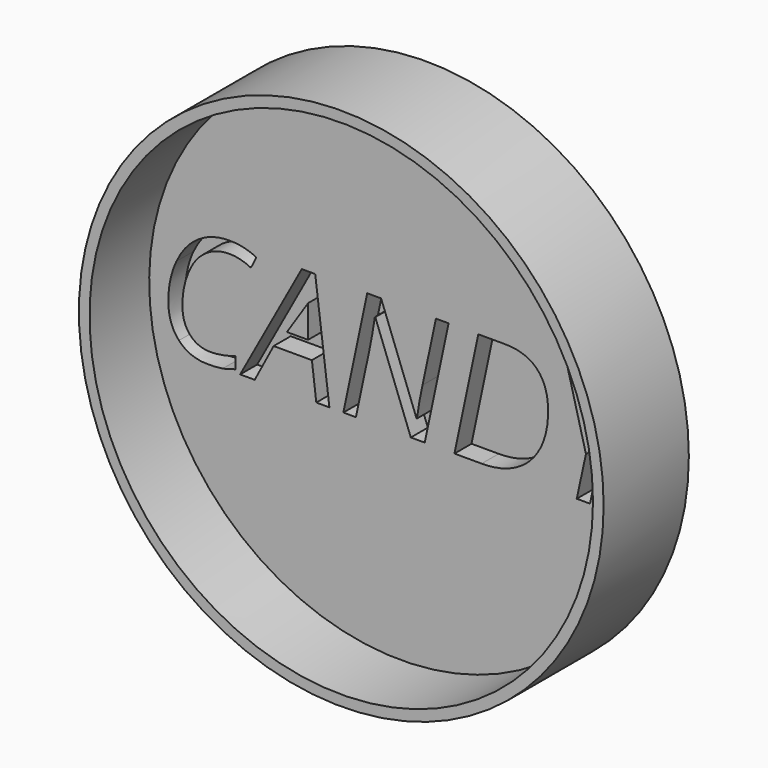
from build123d import *

# Parameters (mm, degrees)
F0_R     = 62.5695627455
F1_DEPTH = 25.4
F2_T     = -2.54
F4_DEPTH = 5.08
F6_DEPTH = 5.08


with BuildPart() as f1:
    # F0 (on Front) → F1 (new body)
    with BuildSketch(Plane.XZ):
        Circle(F0_R)
    extrude(amount=F1_DEPTH)

    # F2
    f2_openings = [f1.faces().sort_by_distance(p)[0] for p in [
        (0, -25.4, 0),
    ]]
    offset(amount=F2_T, openings=f2_openings)

    # F3 (on face) → F4 (join)
    with BuildSketch(Plane.XZ.offset(2.54)):
        with BuildLine():
            Line((42.8714592834, 14.3697795653), (46.1623315652, 0.6234704811))
            Line((46.1623315652, 0.6234704811), (55.1577749403, 14.3697795653))
            Line((55.1577749403, 14.3697795653), (58.2842846629, 14.3697795653))
            ThreePointArc((58.2842846629, 14.3697795653), (-59.591645919, -7.2376888635), (60.0295627455, 0))
            ThreePointArc((60.0295627455, 0), (59.6196375987, 7.0033717604), (58.3954606874, 13.9110953747))
            Line((58.3954606874, 13.9110953747), (47.174907652, -2.5732086764))
            Line((47.174907652, -2.5732086764), (45.0967718461, -12.5282445057))
            Line((45.0967718461, -12.5282445057), (41.92952804, -12.5282445057))
            Line((41.92952804, -12.5282445057), (44.119518181, -2.4260319196))
            Line((44.119518181, -2.4260319196), (39.7454249692, 14.3697795653))
            Line((39.7454249692, 14.3697795653), (42.8714592834, 14.3697795653))
        make_face()
        with BuildLine():
            add(Edge.make_bspline(
                [(-35.7621383344, 10.6903606455), (-38.3053526918, 11.9560807539), (-40.8956636113, 11.9560807539)],
                knots=[0, 0, 0, 1, 1, 1], degree=2))
            add(Edge.make_bspline(
                [(-40.8956636113, 11.9560807539), (-44.098229839, 11.9560807539), (-46.6267265207, 10.1722984616)],
                knots=[0, 0, 0, 1, 1, 1], degree=2))
            add(Edge.make_bspline(
                [(-46.6267265207, 10.1722984616), (-49.1552232023, 8.3885161693), (-50.6358213756, 4.9386929902)],
                knots=[0, 0, 0, 1, 1, 1], degree=2))
            add(Edge.make_bspline(
                [(-50.6358213756, 4.9386929902), (-52.116419549, 1.488869811), (-52.116419549, -2.5732086764)],
                knots=[0, 0, 0, 1, 1, 1], degree=2))
            add(Edge.make_bspline(
                [(-52.116419549, -2.5732086764), (-52.116419549, -6.0171447853), (-50.3238066513, -8.0687887749)],
                knots=[0, 0, 0, 1, 1, 1], degree=2))
            add(Edge.make_bspline(
                [(-50.3238066513, -8.0687887749), (-48.5311937535, -10.1204327646), (-45.3874982285, -10.1204327646)],
                knots=[0, 0, 0, 1, 1, 1], degree=2))
            add(Edge.make_bspline(
                [(-45.3874982285, -10.1204327646), (-42.8266226604, -10.1204327646), (-39.459218465, -9.066647186)],
                knots=[0, 0, 0, 1, 1, 1], degree=2))
            Line((-39.459218465, -9.066647186), (-39.459218465, -11.8100219325))
            add(Edge.make_bspline(
                [(-39.459218465, -11.8100219325), (-41.0428403681, -12.3810677489), (-42.4792855143, -12.6400988408)],
                knots=[0, 0, 0, 1, 1, 1], degree=2))
            add(Edge.make_bspline(
                [(-42.4792855143, -12.6400988408), (-43.9157306606, -12.8991299328), (-45.9349957638, -12.8991299328)],
                knots=[0, 0, 0, 1, 1, 1], degree=2))
            add(Edge.make_bspline(
                [(-45.9349957638, -12.8991299328), (-50.3915079594, -12.8991299328), (-52.9288352464, -10.1469245808)],
                knots=[0, 0, 0, 1, 1, 1], degree=2))
            add(Edge.make_bspline(
                [(-52.9288352464, -10.1469245808), (-55.4661625335, -7.3947192288), (-55.4661625335, -2.6497405899)],
                knots=[0, 0, 0, 1, 1, 1], degree=2))
            add(Edge.make_bspline(
                [(-55.4661625335, -2.6497405899), (-55.4661625335, 2.1541087517), (-53.526372879, 6.2838885472)],
                knots=[0, 0, 0, 1, 1, 1], degree=2))
            add(Edge.make_bspline(
                [(-53.526372879, 6.2838885472), (-51.5865832245, 10.4136683428), (-48.3104286184, 12.5830537379)],
                knots=[0, 0, 0, 1, 1, 1], degree=2))
            add(Edge.make_bspline(
                [(-48.3104286184, 12.5830537379), (-45.0342740122, 14.7524391329), (-40.8956636113, 14.7524391329)],
                knots=[0, 0, 0, 1, 1, 1], degree=2))
            add(Edge.make_bspline(
                [(-40.8956636113, 14.7524391329), (-37.2751153942, 14.7524391329), (-34.496418226, 13.280671565)],
                knots=[0, 0, 0, 1, 1, 1], degree=2))
            Line((-34.496418226, 13.280671565), (-35.7621383344, 10.6903606455))
        make_face(mode=Mode.SUBTRACT)
        Polygon((-20.1790633255, -12.5282445057), (-21.2269618338, -3.974331401), (-30.3519207548, -3.974331401), (-34.8614165829, -12.5282445057), (-38.3406751134, -12.5282445057), (-23.6406606452, 14.3697795653), (-20.4380944174, 14.3697795653), (-17.0530290113, -12.5282445057), align=None, mode=Mode.SUBTRACT)
        with BuildLine():
            Line((11.3697462601, 14.3697795653), (5.6828363777, -12.5282445057))
            Line((5.6828363777, -12.5282445057), (2.3566416742, -12.5282445057))
            Line((2.3566416742, -12.5282445057), (-6.1089653764, 9.9721380724))
            Line((-6.1089653764, 9.9721380724), (-6.2149326412, 9.9721380724))
            add(Edge.make_bspline(
                [(-6.2149326412, 9.9721380724), (-6.8036396684, 5.9041725147), (-7.5807329443, 2.2836242977)],
                knots=[0, 0, 0, 1, 1, 1], degree=2))
            Line((-7.5807329443, 2.2836242977), (-10.7420896801, -12.5282445057))
            Line((-10.7420896801, -12.5282445057), (-13.7209472375, -12.5282445057))
            Line((-13.7209472375, -12.5282445057), (-8.0399244254, 14.3697795653))
            Line((-8.0399244254, 14.3697795653), (-4.7255038625, 14.3697795653))
            Line((-4.7255038625, 14.3697795653), (3.716554907, -8.0776193803))
            Line((3.716554907, -8.0776193803), (3.8284092421, -8.0776193803))
            add(Edge.make_bspline(
                [(3.8284092421, -8.0776193803), (4.3817938477, -3.9566701902), (5.1530000532, -0.6245884165)],
                knots=[0, 0, 0, 1, 1, 1], degree=2))
            Line((5.1530000532, -0.6245884165), (8.355566281, 14.3697795653))
            Line((8.355566281, 14.3697795653), (11.3697462601, 14.3697795653))
        make_face(mode=Mode.SUBTRACT)
        with BuildLine():
            add(Edge.make_bspline(
                [(32.4660625784, 11.6175742133), (35.1064135952, 8.8653688613), (35.1064135952, 3.6082151088)],
                knots=[0, 0, 0, 1, 1, 1], degree=2))
            add(Edge.make_bspline(
                [(35.1064135952, 3.6082151088), (35.1064135952, -1.1956342328), (33.1725110109, -4.8750531526)],
                knots=[0, 0, 0, 1, 1, 1], degree=2))
            add(Edge.make_bspline(
                [(33.1725110109, -4.8750531526), (31.2386084267, -8.5544720723), (27.6533826313, -10.541358289)],
                knots=[0, 0, 0, 1, 1, 1], degree=2))
            add(Edge.make_bspline(
                [(27.6533826313, -10.541358289), (24.0681568359, -12.5282445057), (19.2466462835, -12.5282445057)],
                knots=[0, 0, 0, 1, 1, 1], degree=2))
            Line((19.2466462835, -12.5282445057), (12.7708689847, -12.5282445057))
            Line((12.7708689847, -12.5282445057), (18.4518917968, 14.3697795653))
            Line((18.4518917968, 14.3697795653), (24.7451699171, 14.3697795653))
            add(Edge.make_bspline(
                [(24.7451699171, 14.3697795653), (29.8257115615, 14.3697795653), (32.4660625784, 11.6175742133)],
                knots=[0, 0, 0, 1, 1, 1], degree=2))
        make_face(mode=Mode.SUBTRACT)
    extrude(amount=F4_DEPTH)

    # F5 (on face) → F6 (join)
    with BuildSketch(Plane.XZ.offset(2.54)):
        Polygon((-22.1393704414, 7.7067422681), (-27.1837823093, 0), (-22.1393704414, 0), align=None)
    extrude(amount=F6_DEPTH)


solid = f1.part
